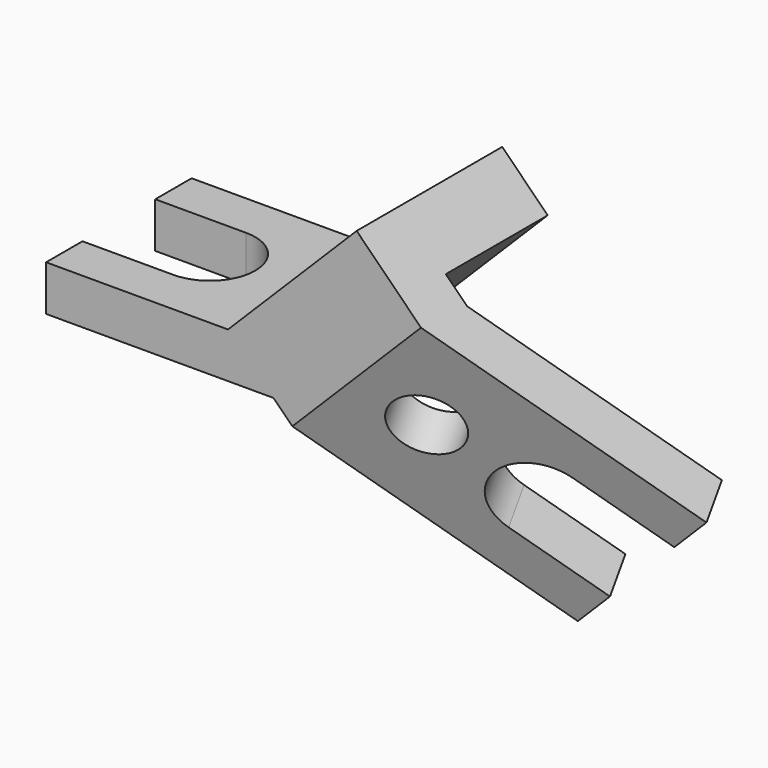
from build123d import *

# Parameters (mm, degrees)
F1_DEPTH = 50
F3_DEPTH = 100
F5_DEPTH = 95.7116781187
F6_R     = 18.5
F7_DEPTH = 25


with BuildPart() as f1:
    # F0 (on Front) → F1 (new body, symmetric)
    with BuildSketch(Plane.XZ):
        Polygon((-125, 0), (0, 0), (70.7106781187, 70.7106781187), (45.7106781187, 95.7106781187), (-25, 25), (-125, 25), align=None)
    extrude(amount=F1_DEPTH, both=True)

    # F2 (on face) → F3 (join, through all)
    with BuildSketch(Plane(origin=(70.7106781187, 0, 70.7106781187), x_dir=(0.7071067812, 0, -0.7071067812), z_dir=(0.7071067812, 0, 0.7071067812))):
        Polygon((0, -20), (0, -50), (14.6446609407, -50), (148.8785985273, 27.5), (136.3785985273, 49.1506350946), (16.6061851677, -20), align=None)
    extrude(amount=-F3_DEPTH)

    # F4 (on face) → F5 (cut, through all)
    with BuildSketch(Plane(origin=(0, 0, 0), x_dir=(1, 0, 0), z_dir=(0, 0, -1))):
        with BuildLine():
            Line((-125, -25), (-75, -25))
            ThreePointArc((-75, -25), (-50, 0), (-75, 25))
            Line((-75, 25), (-125, 25))
            Line((-125, 25), (-125, -25))
        make_face()
    extrude(amount=-F5_DEPTH, mode=Mode.SUBTRACT)

    # F6 (on face) → F7 (cut, through all)
    with BuildSketch(Plane(origin=(17.8981456572, -43.8413242022, -17.8981456572), x_dir=(0.9354143467, 0.3273268354, 0.133630621), z_dir=(0.3535533906, -0.8660254038, -0.3535533906))):
        with BuildLine():
            ThreePointArc((114.0964385861, -17.18282669), (78.8318731679, -14.6509448072), (76.2999912852, -49.9155102254))
            Line((76.2999912855, -49.9155102251), (112.3059431744, -91.4916022561))
            Line((112.3059431744, -91.4916022561), (150.1023904754, -58.7589187207))
            Line((150.1023904754, -58.7589187207), (114.0964385864, -17.1828266897))
        make_face()
        with Locations((54.609687352, 13.3184261958)):
            Circle(F6_R)
    extrude(amount=-F7_DEPTH, mode=Mode.SUBTRACT)


solid = f1.part
